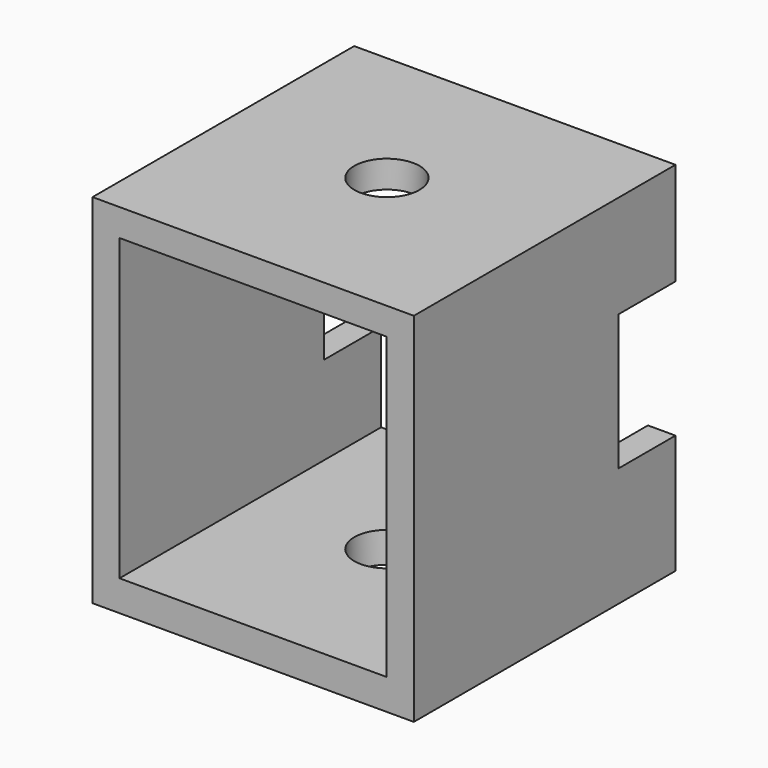
from build123d import *

# Parameters (mm, degrees)
F0_W     = 114.1259372234
F0_H     = 116.1566488445
F0_R     = 11.5634677864
F1_DEPTH = 127
F3_DEPTH = 2514.6
F2_W     = 9.7812525928
F2_H     = 48.1955334544
F4_DEPTH = 25.4
F2_W_2   = 9.5781907439
F5_DEPTH = 25.4


with BuildPart() as f1:
    # F0 (on Top) → F1 (new body)
    with BuildSketch(Plane.XY):
        with Locations((0.5076751113, -1.9291769713)):
            Rectangle(F0_W, F0_H)
        Circle(F0_R, mode=Mode.SUBTRACT)
    extrude(amount=F1_DEPTH)

    # F2 (on face) → F3 (cut)
    with BuildSketch(Plane(origin=(0, 56.1491474509, 0), x_dir=(-1, 0, 0), z_dir=(0, 1, 0))):
        Polygon((46.9771027565, 117.3235103488), (-47.7893911302, 117.3235103488), (-47.7893911302, 90.5181244016), (-47.7893911302, 42.3225909472), (-47.7893911302, 10.9142651781), (46.9771027565, 10.9142651781), (46.9771027565, 42.3225909472), (46.9771027565, 90.5181244016), align=None)
    extrude(amount=-F3_DEPTH, mode=Mode.SUBTRACT)

    # F2 (on face) → F4 (cut)
    with BuildSketch(Plane(origin=(0, 56.1491474509, 0), x_dir=(-1, 0, 0), z_dir=(0, 1, 0))):
        with Locations((-52.6800174266, 66.4203576744)):
            Rectangle(F2_W, F2_H)
    extrude(amount=-F4_DEPTH, mode=Mode.SUBTRACT)

    # F2 (on face) → F5 (cut)
    with BuildSketch(Plane(origin=(0, 56.1491474509, 0), x_dir=(-1, 0, 0), z_dir=(0, 1, 0))):
        with Locations((51.7661981285, 66.4203576744)):
            Rectangle(F2_W_2, F2_H)
    extrude(amount=-F5_DEPTH, mode=Mode.SUBTRACT)


solid = f1.part
